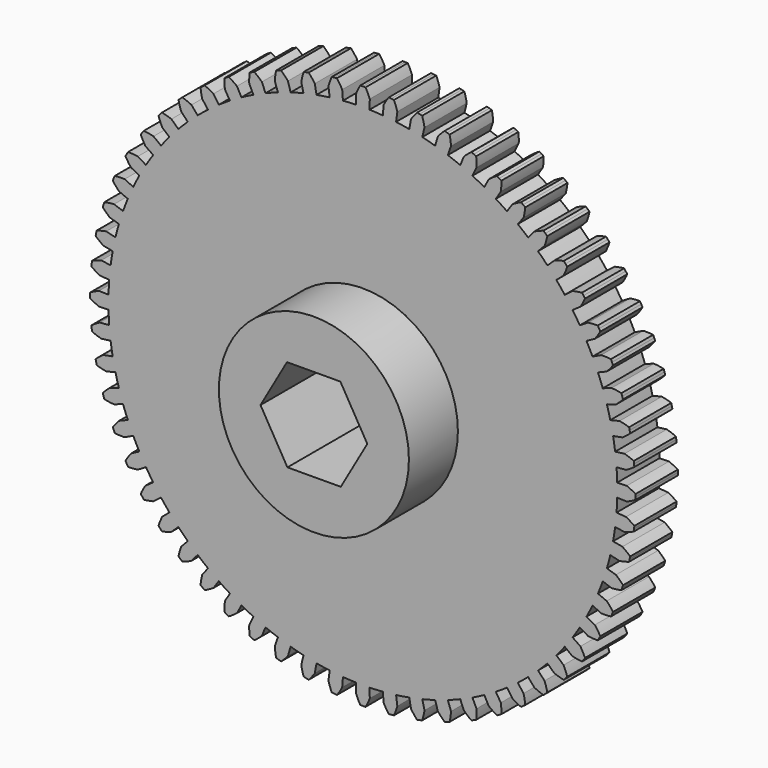
from build123d import *

# Parameters (mm, degrees)
F1_DEPTH = 6.35
F2_R     = 11.43
F3_DEPTH = 7.366
F5_DEPTH = 25.4


with BuildPart() as f1:
    # F0 (on Front) → F1 (new body)
    with BuildSketch(Plane.XZ):
        with BuildLine():
            Line((21.855258, -23.030636), (21.068468, -22.201533))
            ThreePointArc((21.068468, -22.201533), (20.48008, -22.745434), (19.877656, -23.273745))
            Line((19.877656, -23.273745), (20.619976, -24.142889))
            ThreePointArc((20.619976, -24.142889), (21.159843, -24.385312), (21.716271, -24.586837))
            ThreePointArc((21.716271, -24.586837), (21.833498, -24.482797), (21.950227, -24.378197))
            ThreePointArc((21.950227, -24.378197), (22.066455, -24.273041), (22.182179, -24.167331))
            ThreePointArc((22.182179, -24.167331), (22.039921, -23.592886), (21.855258, -23.030636))
        make_face()
        with BuildLine():
            ThreePointArc((-18.632361, 24.282166), (-17.990343, 24.761583), (-17.335996, 25.22403))
            Line((-17.335996, 25.22403), (-17.983398, 26.166006))
            ThreePointArc((-17.983398, 26.166006), (-18.494968, 26.463532), (-19.027282, 26.722116))
            ThreePointArc((-19.027282, 26.722116), (-19.154743, 26.630899), (-19.281766, 26.539074))
            ThreePointArc((-19.281766, 26.539074), (-19.408349, 26.446644), (-19.534489, 26.353609))
            ThreePointArc((-19.534489, 26.353609), (-19.453055, 25.767441), (-19.328175, 25.188969))
            Line((-19.328175, 25.188969), (-18.632361, 24.282166))
        make_face()
        with BuildLine():
            Line((24.142889, -20.619976), (23.273745, -19.877656))
            ThreePointArc((23.273745, -19.877656), (22.745434, -20.48008), (22.201533, -21.068468))
            Line((22.201533, -21.068468), (23.030636, -21.855258))
            ThreePointArc((23.030636, -21.855258), (23.592886, -22.039921), (24.167331, -22.182179))
            ThreePointArc((24.167331, -22.182179), (24.273041, -22.066455), (24.378197, -21.950227))
            ThreePointArc((24.378197, -21.950227), (24.482797, -21.833498), (24.586837, -21.716271))
            ThreePointArc((24.586837, -21.716271), (24.385312, -21.159843), (24.142889, -20.619976))
        make_face()
        with BuildLine():
            Line((26.166006, -17.983398), (25.22403, -17.335996))
            ThreePointArc((25.22403, -17.335996), (24.761583, -17.990343), (24.282166, -18.632361))
            Line((24.282166, -18.632361), (25.188969, -19.328175))
            ThreePointArc((25.188969, -19.328175), (25.767441, -19.453055), (26.353609, -19.534489))
            ThreePointArc((26.353609, -19.534489), (26.446644, -19.408349), (26.539074, -19.281766))
            ThreePointArc((26.539074, -19.281766), (26.630899, -19.154743), (26.722116, -19.027282))
            ThreePointArc((26.722116, -19.027282), (26.463532, -18.494968), (26.166006, -17.983398))
        make_face()
        with BuildLine():
            Line((27.902443, -15.149791), (26.897955, -14.604398))
            ThreePointArc((26.897955, -14.604398), (26.50644, -15.3035), (26.096758, -15.992114))
            Line((26.096758, -15.992114), (27.071325, -16.589329))
            ThreePointArc((27.071325, -16.589329), (27.659682, -16.653059), (28.251151, -16.672775))
            ThreePointArc((28.251151, -16.672775), (28.330491, -16.537601), (28.409184, -16.40205))
            ThreePointArc((28.409184, -16.40205), (28.487228, -16.266124), (28.564622, -16.129827))
            ThreePointArc((28.564622, -16.129827), (28.251813, -15.627458), (27.902443, -15.149791))
        make_face()
        with BuildLine():
            ThreePointArc((-0.801198, 30.596512), (0, 30.607), (0.801198, 30.596512))
            Line((0.801198, 30.596512), (0.831118, 31.73912))
            ThreePointArc((0.831118, 31.73912), (0.592131, 32.280516), (0.313471, 32.802602))
            ThreePointArc((0.313471, 32.802602), (0.156737, 32.803726), (0, 32.8041))
            ThreePointArc((0, 32.8041), (-0.156737, 32.803726), (-0.313471, 32.802602))
            ThreePointArc((-0.313471, 32.802602), (-0.592131, 32.280516), (-0.831118, 31.73912))
            Line((-0.831118, 31.73912), (-0.801198, 30.596512))
        make_face()
        with BuildLine():
            ThreePointArc((26.096758, 15.992114), (26.50644, 15.3035), (26.897955, 14.604398))
            Line((26.897955, 14.604398), (27.902443, 15.149791))
            ThreePointArc((27.902443, 15.149791), (28.251813, 15.627458), (28.564622, 16.129827))
            ThreePointArc((28.564622, 16.129827), (28.487228, 16.266124), (28.409184, 16.40205))
            ThreePointArc((28.409184, 16.40205), (28.330491, 16.537601), (28.251151, 16.672775))
            ThreePointArc((28.251151, 16.672775), (27.659682, 16.653059), (27.071325, 16.589329))
            Line((27.071325, 16.589329), (26.096758, 15.992114))
        make_face()
        with BuildLine():
            ThreePointArc((24.282166, 18.632361), (24.761583, 17.990343), (25.22403, 17.335996))
            Line((25.22403, 17.335996), (26.166006, 17.983398))
            ThreePointArc((26.166006, 17.983398), (26.463532, 18.494968), (26.722116, 19.027282))
            ThreePointArc((26.722116, 19.027282), (26.630899, 19.154743), (26.539074, 19.281766))
            ThreePointArc((26.539074, 19.281766), (26.446644, 19.408349), (26.353609, 19.534489))
            ThreePointArc((26.353609, 19.534489), (25.767441, 19.453055), (25.188969, 19.328175))
            Line((25.188969, 19.328175), (24.282166, 18.632361))
        make_face()
        with BuildLine():
            ThreePointArc((22.201533, 21.068468), (22.745434, 20.48008), (23.273745, 19.877656))
            Line((23.273745, 19.877656), (24.142889, 20.619976))
            ThreePointArc((24.142889, 20.619976), (24.385312, 21.159843), (24.586837, 21.716271))
            ThreePointArc((24.586837, 21.716271), (24.482797, 21.833498), (24.378197, 21.950227))
            ThreePointArc((24.378197, 21.950227), (24.273041, 22.066455), (24.167331, 22.182179))
            ThreePointArc((24.167331, 22.182179), (23.592886, 22.039921), (23.030636, 21.855258))
            Line((23.030636, 21.855258), (22.201533, 21.068468))
        make_face()
        with BuildLine():
            ThreePointArc((19.877656, 23.273745), (20.48008, 22.745434), (21.068468, 22.201533))
            Line((21.068468, 22.201533), (21.855258, 23.030636))
            ThreePointArc((21.855258, 23.030636), (22.039921, 23.592886), (22.182179, 24.167331))
            ThreePointArc((22.182179, 24.167331), (22.066455, 24.273041), (21.950227, 24.378197))
            ThreePointArc((21.950227, 24.378197), (21.833498, 24.482797), (21.716271, 24.586837))
            ThreePointArc((21.716271, 24.586837), (21.159843, 24.385312), (20.619976, 24.142889))
            Line((20.619976, 24.142889), (19.877656, 23.273745))
        make_face()
        with BuildLine():
            ThreePointArc((17.335996, 25.22403), (17.990343, 24.761583), (18.632361, 24.282166))
            Line((18.632361, 24.282166), (19.328175, 25.188969))
            ThreePointArc((19.328175, 25.188969), (19.453055, 25.767441), (19.534489, 26.353609))
            ThreePointArc((19.534489, 26.353609), (19.408349, 26.446644), (19.281766, 26.539074))
            ThreePointArc((19.281766, 26.539074), (19.154743, 26.630899), (19.027282, 26.722116))
            ThreePointArc((19.027282, 26.722116), (18.494968, 26.463532), (17.983398, 26.166006))
            Line((17.983398, 26.166006), (17.335996, 25.22403))
        make_face()
        with BuildLine():
            ThreePointArc((-7.145062, 29.761326), (-6.363553, 29.938164), (-5.577683, 30.094483))
            Line((-5.577683, 30.094483), (-5.785978, 31.218343))
            ThreePointArc((-5.785978, 31.218343), (-6.132305, 31.698221), (-6.513424, 32.150961))
            ThreePointArc((-6.513424, 32.150961), (-6.666966, 32.119473), (-6.820356, 32.087252))
            ThreePointArc((-6.820356, 32.087252), (-6.97359, 32.054298), (-7.126665, 32.020612))
            ThreePointArc((-7.126665, 32.020612), (-7.290688, 31.451999), (-7.41189, 30.872745))
            Line((-7.41189, 30.872745), (-7.145062, 29.761326))
        make_face()
        with BuildLine():
            ThreePointArc((-10.216827, 28.851428), (-9.458083, 29.108987), (-8.692858, 29.346596))
            Line((-8.692858, 29.346596), (-9.017487, 30.442527))
            ThreePointArc((-9.017487, 30.442527), (-9.412078, 30.883574), (-9.838433, 31.293996))
            ThreePointArc((-9.838433, 31.293996), (-9.987843, 31.246631), (-10.137024, 31.198553))
            ThreePointArc((-10.137024, 31.198553), (-10.285975, 31.149762), (-10.43469, 31.100261))
            ThreePointArc((-10.43469, 31.100261), (-10.538378, 30.517617), (-10.598368, 29.928867))
            Line((-10.598368, 29.928867), (-10.216827, 28.851428))
        make_face()
        with BuildLine():
            ThreePointArc((-13.176653, 27.625428), (-12.448988, 27.960886), (-11.712792, 28.277181))
            Line((-11.712792, 28.277181), (-12.150199, 29.333175))
            ThreePointArc((-12.150199, 29.333175), (-12.58873, 29.730561), (-13.05565, 30.094168))
            ThreePointArc((-13.05565, 30.094168), (-13.199291, 30.031445), (-13.34263, 29.968037))
            ThreePointArc((-13.34263, 29.968037), (-13.485664, 29.903944), (-13.62839, 29.839168))
            ThreePointArc((-13.62839, 29.839168), (-13.670607, 29.248878), (-13.668727, 28.657083))
            Line((-13.668727, 28.657083), (-13.176653, 27.625428))
        make_face()
        with BuildLine():
            ThreePointArc((-15.992114, 26.096758), (-15.3035, 26.50644), (-14.604398, 26.897955))
            Line((-14.604398, 26.897955), (-15.149791, 27.902443))
            ThreePointArc((-15.149791, 27.902443), (-15.627458, 28.251813), (-16.129827, 28.564622))
            ThreePointArc((-16.129827, 28.564622), (-16.266124, 28.487228), (-16.40205, 28.409184))
            ThreePointArc((-16.40205, 28.409184), (-16.537601, 28.330491), (-16.672775, 28.251151))
            ThreePointArc((-16.672775, 28.251151), (-16.653059, 27.659682), (-16.589329, 27.071325))
            Line((-16.589329, 27.071325), (-15.992114, 26.096758))
        make_face()
        with BuildLine():
            Line((29.333175, -12.150199), (28.277181, -11.712792))
            ThreePointArc((28.277181, -11.712792), (27.960886, -12.448988), (27.625428, -13.176653))
            Line((27.625428, -13.176653), (28.657083, -13.668727))
            ThreePointArc((28.657083, -13.668727), (29.248878, -13.670607), (29.839168, -13.62839))
            ThreePointArc((29.839168, -13.62839), (29.903944, -13.485664), (29.968037, -13.34263))
            ThreePointArc((29.968037, -13.34263), (30.031445, -13.199291), (30.094168, -13.05565))
            ThreePointArc((30.094168, -13.05565), (29.730561, -12.58873), (29.333175, -12.150199))
        make_face()
        with BuildLine():
            ThreePointArc((-3.995015, 30.345153), (-3.199303, 30.439332), (-2.401398, 30.512649))
            Line((-2.401398, 30.512649), (-2.491076, 31.652125))
            ThreePointArc((-2.491076, 31.652125), (-2.785346, 32.165575), (-3.117052, 32.655673))
            ThreePointArc((-3.117052, 32.655673), (-3.273044, 32.640407), (-3.428962, 32.624396))
            ThreePointArc((-3.428962, 32.624396), (-3.584802, 32.60764), (-3.740559, 32.590139))
            ThreePointArc((-3.740559, 32.590139), (-3.96312, 32.041786), (-4.144207, 31.478374))
            Line((-4.144207, 31.478374), (-3.995015, 30.345153))
        make_face()
        with BuildLine():
            ThreePointArc((2.401398, 30.512649), (3.199303, 30.439332), (3.995015, 30.345153))
            Line((3.995015, 30.345153), (4.144207, 31.478374))
            ThreePointArc((4.144207, 31.478374), (3.96312, 32.041786), (3.740559, 32.590139))
            ThreePointArc((3.740559, 32.590139), (3.584802, 32.60764), (3.428962, 32.624396))
            ThreePointArc((3.428962, 32.624396), (3.273044, 32.640407), (3.117052, 32.655673))
            ThreePointArc((3.117052, 32.655673), (2.785346, 32.165575), (2.491076, 31.652125))
            Line((2.491076, 31.652125), (2.401398, 30.512649))
        make_face()
        with BuildLine():
            ThreePointArc((27.625428, 13.176653), (27.960886, 12.448988), (28.277181, 11.712792))
            Line((28.277181, 11.712792), (29.333175, 12.150199))
            ThreePointArc((29.333175, 12.150199), (29.730561, 12.58873), (30.094168, 13.05565))
            ThreePointArc((30.094168, 13.05565), (30.031445, 13.199291), (29.968037, 13.34263))
            ThreePointArc((29.968037, 13.34263), (29.903944, 13.485664), (29.839168, 13.62839))
            ThreePointArc((29.839168, 13.62839), (29.248878, 13.670607), (28.657083, 13.668727))
            Line((28.657083, 13.668727), (27.625428, 13.176653))
        make_face()
        with BuildLine():
            ThreePointArc((14.604398, 26.897955), (15.3035, 26.50644), (15.992114, 26.096758))
            Line((15.992114, 26.096758), (16.589329, 27.071325))
            ThreePointArc((16.589329, 27.071325), (16.653059, 27.659682), (16.672775, 28.251151))
            ThreePointArc((16.672775, 28.251151), (16.537601, 28.330491), (16.40205, 28.409184))
            ThreePointArc((16.40205, 28.409184), (16.266124, 28.487228), (16.129827, 28.564622))
            ThreePointArc((16.129827, 28.564622), (15.627458, 28.251813), (15.149791, 27.902443))
            Line((15.149791, 27.902443), (14.604398, 26.897955))
        make_face()
        with BuildLine():
            ThreePointArc((11.712792, 28.277181), (12.448988, 27.960886), (13.176653, 27.625428))
            Line((13.176653, 27.625428), (13.668727, 28.657083))
            ThreePointArc((13.668727, 28.657083), (13.670607, 29.248878), (13.62839, 29.839168))
            ThreePointArc((13.62839, 29.839168), (13.485664, 29.903944), (13.34263, 29.968037))
            ThreePointArc((13.34263, 29.968037), (13.199291, 30.031445), (13.05565, 30.094168))
            ThreePointArc((13.05565, 30.094168), (12.58873, 29.730561), (12.150199, 29.333175))
            Line((12.150199, 29.333175), (11.712792, 28.277181))
        make_face()
        with BuildLine():
            ThreePointArc((8.692858, 29.346596), (9.458083, 29.108987), (10.216827, 28.851428))
            Line((10.216827, 28.851428), (10.598368, 29.928867))
            ThreePointArc((10.598368, 29.928867), (10.538378, 30.517617), (10.43469, 31.100261))
            ThreePointArc((10.43469, 31.100261), (10.285975, 31.149762), (10.137024, 31.198553))
            ThreePointArc((10.137024, 31.198553), (9.987843, 31.246631), (9.838433, 31.293996))
            ThreePointArc((9.838433, 31.293996), (9.412078, 30.883574), (9.017487, 30.442527))
            Line((9.017487, 30.442527), (8.692858, 29.346596))
        make_face()
        with BuildLine():
            ThreePointArc((5.577683, 30.094483), (6.363553, 29.938164), (7.145062, 29.761326))
            Line((7.145062, 29.761326), (7.41189, 30.872745))
            ThreePointArc((7.41189, 30.872745), (7.290688, 31.451999), (7.126665, 32.020612))
            ThreePointArc((7.126665, 32.020612), (6.97359, 32.054298), (6.820356, 32.087252))
            ThreePointArc((6.820356, 32.087252), (6.666966, 32.119473), (6.513424, 32.150961))
            ThreePointArc((6.513424, 32.150961), (6.132305, 31.698221), (5.785978, 31.218343))
            Line((5.785978, 31.218343), (5.577683, 30.094483))
        make_face()
        with BuildLine():
            Line((-30.872745, -7.41189), (-29.761326, -7.145062))
            ThreePointArc((-29.761326, -7.145062), (-29.938164, -6.363553), (-30.094483, -5.577683))
            Line((-30.094483, -5.577683), (-31.218343, -5.785978))
            ThreePointArc((-31.218343, -5.785978), (-31.698221, -6.132305), (-32.150961, -6.513424))
            ThreePointArc((-32.150961, -6.513424), (-32.119473, -6.666966), (-32.087252, -6.820356))
            ThreePointArc((-32.087252, -6.820356), (-32.054298, -6.97359), (-32.020612, -7.126665))
            ThreePointArc((-32.020612, -7.126665), (-31.451999, -7.290688), (-30.872745, -7.41189))
        make_face()
        with BuildLine():
            Line((16.589329, -27.071325), (15.992114, -26.096758))
            ThreePointArc((15.992114, -26.096758), (15.3035, -26.50644), (14.604398, -26.897955))
            Line((14.604398, -26.897955), (15.149791, -27.902443))
            ThreePointArc((15.149791, -27.902443), (15.627458, -28.251813), (16.129827, -28.564622))
            ThreePointArc((16.129827, -28.564622), (16.266124, -28.487228), (16.40205, -28.409184))
            ThreePointArc((16.40205, -28.409184), (16.537601, -28.330491), (16.672775, -28.251151))
            ThreePointArc((16.672775, -28.251151), (16.653059, -27.659682), (16.589329, -27.071325))
        make_face()
        with BuildLine():
            Line((-25.188969, -19.328175), (-24.282166, -18.632361))
            ThreePointArc((-24.282166, -18.632361), (-24.761583, -17.990343), (-25.22403, -17.335996))
            Line((-25.22403, -17.335996), (-26.166006, -17.983398))
            ThreePointArc((-26.166006, -17.983398), (-26.463532, -18.494968), (-26.722116, -19.027282))
            ThreePointArc((-26.722116, -19.027282), (-26.630899, -19.154743), (-26.539074, -19.281766))
            ThreePointArc((-26.539074, -19.281766), (-26.446644, -19.408349), (-26.353609, -19.534489))
            ThreePointArc((-26.353609, -19.534489), (-25.767441, -19.453055), (-25.188969, -19.328175))
        make_face()
        with BuildLine():
            Line((-23.030636, -21.855258), (-22.201533, -21.068468))
            ThreePointArc((-22.201533, -21.068468), (-22.745434, -20.48008), (-23.273745, -19.877656))
            Line((-23.273745, -19.877656), (-24.142889, -20.619976))
            ThreePointArc((-24.142889, -20.619976), (-24.385312, -21.159843), (-24.586837, -21.716271))
            ThreePointArc((-24.586837, -21.716271), (-24.482797, -21.833498), (-24.378197, -21.950227))
            ThreePointArc((-24.378197, -21.950227), (-24.273041, -22.066455), (-24.167331, -22.182179))
            ThreePointArc((-24.167331, -22.182179), (-23.592886, -22.039921), (-23.030636, -21.855258))
        make_face()
        with BuildLine():
            ThreePointArc((-21.068468, 22.201533), (-20.48008, 22.745434), (-19.877656, 23.273745))
            Line((-19.877656, 23.273745), (-20.619976, 24.142889))
            ThreePointArc((-20.619976, 24.142889), (-21.159843, 24.385312), (-21.716271, 24.586837))
            ThreePointArc((-21.716271, 24.586837), (-21.833498, 24.482797), (-21.950227, 24.378197))
            ThreePointArc((-21.950227, 24.378197), (-22.066455, 24.273041), (-22.182179, 24.167331))
            ThreePointArc((-22.182179, 24.167331), (-22.039921, 23.592886), (-21.855258, 23.030636))
            Line((-21.855258, 23.030636), (-21.068468, 22.201533))
        make_face()
        with BuildLine():
            Line((-20.619976, -24.142889), (-19.877656, -23.273745))
            ThreePointArc((-19.877656, -23.273745), (-20.48008, -22.745434), (-21.068468, -22.201533))
            Line((-21.068468, -22.201533), (-21.855258, -23.030636))
            ThreePointArc((-21.855258, -23.030636), (-22.039921, -23.592886), (-22.182179, -24.167331))
            ThreePointArc((-22.182179, -24.167331), (-22.066455, -24.273041), (-21.950227, -24.378197))
            ThreePointArc((-21.950227, -24.378197), (-21.833498, -24.482797), (-21.716271, -24.586837))
            ThreePointArc((-21.716271, -24.586837), (-21.159843, -24.385312), (-20.619976, -24.142889))
        make_face()
        with BuildLine():
            ThreePointArc((-23.273745, 19.877656), (-22.745434, 20.48008), (-22.201533, 21.068468))
            Line((-22.201533, 21.068468), (-23.030636, 21.855258))
            ThreePointArc((-23.030636, 21.855258), (-23.592886, 22.039921), (-24.167331, 22.182179))
            ThreePointArc((-24.167331, 22.182179), (-24.273041, 22.066455), (-24.378197, 21.950227))
            ThreePointArc((-24.378197, 21.950227), (-24.482797, 21.833498), (-24.586837, 21.716271))
            ThreePointArc((-24.586837, 21.716271), (-24.385312, 21.159843), (-24.142889, 20.619976))
            Line((-24.142889, 20.619976), (-23.273745, 19.877656))
        make_face()
        with BuildLine():
            Line((-15.149791, -27.902443), (-14.604398, -26.897955))
            ThreePointArc((-14.604398, -26.897955), (-15.3035, -26.50644), (-15.992114, -26.096758))
            Line((-15.992114, -26.096758), (-16.589329, -27.071325))
            ThreePointArc((-16.589329, -27.071325), (-16.653059, -27.659682), (-16.672775, -28.251151))
            ThreePointArc((-16.672775, -28.251151), (-16.537601, -28.330491), (-16.40205, -28.409184))
            ThreePointArc((-16.40205, -28.409184), (-16.266124, -28.487228), (-16.129827, -28.564622))
            ThreePointArc((-16.129827, -28.564622), (-15.627458, -28.251813), (-15.149791, -27.902443))
        make_face()
        with BuildLine():
            ThreePointArc((-25.22403, 17.335996), (-24.761583, 17.990343), (-24.282166, 18.632361))
            Line((-24.282166, 18.632361), (-25.188969, 19.328175))
            ThreePointArc((-25.188969, 19.328175), (-25.767441, 19.453055), (-26.353609, 19.534489))
            ThreePointArc((-26.353609, 19.534489), (-26.446644, 19.408349), (-26.539074, 19.281766))
            ThreePointArc((-26.539074, 19.281766), (-26.630899, 19.154743), (-26.722116, 19.027282))
            ThreePointArc((-26.722116, 19.027282), (-26.463532, 18.494968), (-26.166006, 17.983398))
            Line((-26.166006, 17.983398), (-25.22403, 17.335996))
        make_face()
        with BuildLine():
            Line((31.218343, -5.785978), (30.094483, -5.577683))
            ThreePointArc((30.094483, -5.577683), (29.938164, -6.363553), (29.761326, -7.145062))
            Line((29.761326, -7.145062), (30.872745, -7.41189))
            ThreePointArc((30.872745, -7.41189), (31.451999, -7.290688), (32.020612, -7.126665))
            ThreePointArc((32.020612, -7.126665), (32.054298, -6.97359), (32.087252, -6.820356))
            ThreePointArc((32.087252, -6.820356), (32.119473, -6.666966), (32.150961, -6.513424))
            ThreePointArc((32.150961, -6.513424), (31.698221, -6.132305), (31.218343, -5.785978))
        make_face()
        with BuildLine():
            ThreePointArc((30.596512, -0.801198), (30.604378, -0.400633), (30.607, 0))
            ThreePointArc((30.607, 0), (30.604378, 0.400633), (30.596512, 0.801198))
            ThreePointArc((30.596512, 0.801198), (30.565054, 1.601847), (30.512649, 2.401398))
            ThreePointArc((30.512649, 2.401398), (30.439332, 3.199303), (30.345153, 3.995015))
            ThreePointArc((30.345153, 3.995015), (30.230177, 4.78799), (30.094483, 5.577683))
            ThreePointArc((30.094483, 5.577683), (29.938164, 6.363553), (29.761326, 7.145062))
            ThreePointArc((29.761326, 7.145062), (29.564092, 7.921675), (29.346596, 8.692858))
            ThreePointArc((29.346596, 8.692858), (29.108987, 9.458083), (28.851428, 10.216827))
            ThreePointArc((28.851428, 10.216827), (28.574096, 10.968568), (28.277181, 11.712792))
            ThreePointArc((28.277181, 11.712792), (27.960886, 12.448988), (27.625428, 13.176653))
            ThreePointArc((27.625428, 13.176653), (27.271037, 13.895287), (26.897955, 14.604398))
            ThreePointArc((26.897955, 14.604398), (26.50644, 15.3035), (26.096758, 15.992114))
            ThreePointArc((26.096758, 15.992114), (25.66919, 16.669767), (25.22403, 17.335996))
            ThreePointArc((25.22403, 17.335996), (24.761583, 17.990343), (24.282166, 18.632361))
            ThreePointArc((24.282166, 18.632361), (23.786106, 19.261609), (23.273745, 19.877656))
            ThreePointArc((23.273745, 19.877656), (22.745434, 20.48008), (22.201533, 21.068468))
            ThreePointArc((22.201533, 21.068468), (21.642417, 21.642417), (21.068468, 22.201533))
            ThreePointArc((21.068468, 22.201533), (20.48008, 22.745434), (19.877656, 23.273745))
            ThreePointArc((19.877656, 23.273745), (19.261609, 23.786106), (18.632361, 24.282166))
            ThreePointArc((18.632361, 24.282166), (17.990343, 24.761583), (17.335996, 25.22403))
            ThreePointArc((17.335996, 25.22403), (16.669767, 25.66919), (15.992114, 26.096758))
            ThreePointArc((15.992114, 26.096758), (15.3035, 26.50644), (14.604398, 26.897955))
            ThreePointArc((14.604398, 26.897955), (13.895287, 27.271037), (13.176653, 27.625428))
            ThreePointArc((13.176653, 27.625428), (12.448988, 27.960886), (11.712792, 28.277181))
            ThreePointArc((11.712792, 28.277181), (10.968568, 28.574096), (10.216827, 28.851428))
            ThreePointArc((10.216827, 28.851428), (9.458083, 29.108987), (8.692858, 29.346596))
            ThreePointArc((8.692858, 29.346596), (7.921675, 29.564092), (7.145062, 29.761326))
            ThreePointArc((7.145062, 29.761326), (6.363553, 29.938164), (5.577683, 30.094483))
            ThreePointArc((5.577683, 30.094483), (4.78799, 30.230177), (3.995015, 30.345153))
            ThreePointArc((3.995015, 30.345153), (3.199303, 30.439332), (2.401398, 30.512649))
            ThreePointArc((2.401398, 30.512649), (1.601847, 30.565054), (0.801198, 30.596512))
            ThreePointArc((0.801198, 30.596512), (0, 30.607), (-0.801198, 30.596512))
            ThreePointArc((-0.801198, 30.596512), (-1.601847, 30.565054), (-2.401398, 30.512649))
            ThreePointArc((-2.401398, 30.512649), (-3.199303, 30.439332), (-3.995015, 30.345153))
            ThreePointArc((-3.995015, 30.345153), (-4.78799, 30.230177), (-5.577683, 30.094483))
            ThreePointArc((-5.577683, 30.094483), (-6.363553, 29.938164), (-7.145062, 29.761326))
            ThreePointArc((-7.145062, 29.761326), (-7.921675, 29.564092), (-8.692858, 29.346596))
            ThreePointArc((-8.692858, 29.346596), (-9.458083, 29.108987), (-10.216827, 28.851428))
            ThreePointArc((-10.216827, 28.851428), (-10.968568, 28.574096), (-11.712792, 28.277181))
            ThreePointArc((-11.712792, 28.277181), (-12.448988, 27.960886), (-13.176653, 27.625428))
            ThreePointArc((-13.176653, 27.625428), (-13.895287, 27.271037), (-14.604398, 26.897955))
            ThreePointArc((-14.604398, 26.897955), (-15.3035, 26.50644), (-15.992114, 26.096758))
            ThreePointArc((-15.992114, 26.096758), (-16.669767, 25.66919), (-17.335996, 25.22403))
            ThreePointArc((-17.335996, 25.22403), (-17.990343, 24.761583), (-18.632361, 24.282166))
            ThreePointArc((-18.632361, 24.282166), (-19.261609, 23.786106), (-19.877656, 23.273745))
            ThreePointArc((-19.877656, 23.273745), (-20.48008, 22.745434), (-21.068468, 22.201533))
            ThreePointArc((-21.068468, 22.201533), (-21.642417, 21.642417), (-22.201533, 21.068468))
            ThreePointArc((-22.201533, 21.068468), (-22.745434, 20.48008), (-23.273745, 19.877656))
            ThreePointArc((-23.273745, 19.877656), (-23.786106, 19.261609), (-24.282166, 18.632361))
            ThreePointArc((-24.282166, 18.632361), (-24.761583, 17.990343), (-25.22403, 17.335996))
            ThreePointArc((-25.22403, 17.335996), (-25.66919, 16.669767), (-26.096758, 15.992114))
            ThreePointArc((-26.096758, 15.992114), (-26.50644, 15.3035), (-26.897955, 14.604398))
            ThreePointArc((-26.897955, 14.604398), (-27.271037, 13.895287), (-27.625428, 13.176653))
            ThreePointArc((-27.625428, 13.176653), (-27.960886, 12.448988), (-28.277181, 11.712792))
            ThreePointArc((-28.277181, 11.712792), (-28.574096, 10.968568), (-28.851428, 10.216827))
            ThreePointArc((-28.851428, 10.216827), (-29.108987, 9.458083), (-29.346596, 8.692858))
            ThreePointArc((-29.346596, 8.692858), (-29.564092, 7.921675), (-29.761326, 7.145062))
            ThreePointArc((-29.761326, 7.145062), (-29.938164, 6.363553), (-30.094483, 5.577683))
            ThreePointArc((-30.094483, 5.577683), (-30.230177, 4.78799), (-30.345153, 3.995015))
            ThreePointArc((-30.345153, 3.995015), (-30.439332, 3.199303), (-30.512649, 2.401398))
            ThreePointArc((-30.512649, 2.401398), (-30.565054, 1.601847), (-30.596512, 0.801198))
            ThreePointArc((-30.596512, 0.801198), (-30.607, 0), (-30.596512, -0.801198))
            ThreePointArc((-30.596512, -0.801198), (-30.565054, -1.601847), (-30.512649, -2.401398))
            ThreePointArc((-30.512649, -2.401398), (-30.439332, -3.199303), (-30.345153, -3.995015))
            ThreePointArc((-30.345153, -3.995015), (-30.230177, -4.78799), (-30.094483, -5.577683))
            ThreePointArc((-30.094483, -5.577683), (-29.938164, -6.363553), (-29.761326, -7.145062))
            ThreePointArc((-29.761326, -7.145062), (-29.564092, -7.921675), (-29.346596, -8.692858))
            ThreePointArc((-29.346596, -8.692858), (-29.108987, -9.458083), (-28.851428, -10.216827))
            ThreePointArc((-28.851428, -10.216827), (-28.574096, -10.968568), (-28.277181, -11.712792))
            ThreePointArc((-28.277181, -11.712792), (-27.960886, -12.448988), (-27.625428, -13.176653))
            ThreePointArc((-27.625428, -13.176653), (-27.271037, -13.895287), (-26.897955, -14.604398))
            ThreePointArc((-26.897955, -14.604398), (-26.50644, -15.3035), (-26.096758, -15.992114))
            ThreePointArc((-26.096758, -15.992114), (-25.66919, -16.669767), (-25.22403, -17.335996))
            ThreePointArc((-25.22403, -17.335996), (-24.761583, -17.990343), (-24.282166, -18.632361))
            ThreePointArc((-24.282166, -18.632361), (-23.786106, -19.261609), (-23.273745, -19.877656))
            ThreePointArc((-23.273745, -19.877656), (-22.745434, -20.48008), (-22.201533, -21.068468))
            ThreePointArc((-22.201533, -21.068468), (-21.642417, -21.642417), (-21.068468, -22.201533))
            ThreePointArc((-21.068468, -22.201533), (-20.48008, -22.745434), (-19.877656, -23.273745))
            ThreePointArc((-19.877656, -23.273745), (-19.261609, -23.786106), (-18.632361, -24.282166))
            ThreePointArc((-18.632361, -24.282166), (-17.990343, -24.761583), (-17.335996, -25.22403))
            ThreePointArc((-17.335996, -25.22403), (-16.669767, -25.66919), (-15.992114, -26.096758))
            ThreePointArc((-15.992114, -26.096758), (-15.3035, -26.50644), (-14.604398, -26.897955))
            ThreePointArc((-14.604398, -26.897955), (-13.895287, -27.271037), (-13.176653, -27.625428))
            ThreePointArc((-13.176653, -27.625428), (-12.448988, -27.960886), (-11.712792, -28.277181))
            ThreePointArc((-11.712792, -28.277181), (-10.968568, -28.574096), (-10.216827, -28.851428))
            ThreePointArc((-10.216827, -28.851428), (-9.458083, -29.108987), (-8.692858, -29.346596))
            ThreePointArc((-8.692858, -29.346596), (-7.921675, -29.564092), (-7.145062, -29.761326))
            ThreePointArc((-7.145062, -29.761326), (-6.363553, -29.938164), (-5.577683, -30.094483))
            ThreePointArc((-5.577683, -30.094483), (-4.78799, -30.230177), (-3.995015, -30.345153))
            ThreePointArc((-3.995015, -30.345153), (-3.199303, -30.439332), (-2.401398, -30.512649))
            ThreePointArc((-2.401398, -30.512649), (-1.601847, -30.565054), (-0.801198, -30.596512))
            ThreePointArc((-0.801198, -30.596512), (0, -30.607), (0.801198, -30.596512))
            ThreePointArc((0.801198, -30.596512), (1.601847, -30.565054), (2.401398, -30.512649))
            ThreePointArc((2.401398, -30.512649), (3.199303, -30.439332), (3.995015, -30.345153))
            ThreePointArc((3.995015, -30.345153), (4.78799, -30.230177), (5.577683, -30.094483))
            ThreePointArc((5.577683, -30.094483), (6.363553, -29.938164), (7.145062, -29.761326))
            ThreePointArc((7.145062, -29.761326), (7.921675, -29.564092), (8.692858, -29.346596))
            ThreePointArc((8.692858, -29.346596), (9.458083, -29.108987), (10.216827, -28.851428))
            ThreePointArc((10.216827, -28.851428), (10.968568, -28.574096), (11.712792, -28.277181))
            ThreePointArc((11.712792, -28.277181), (12.448988, -27.960886), (13.176653, -27.625428))
            ThreePointArc((13.176653, -27.625428), (13.895287, -27.271037), (14.604398, -26.897955))
            ThreePointArc((14.604398, -26.897955), (15.3035, -26.50644), (15.992114, -26.096758))
            ThreePointArc((15.992114, -26.096758), (16.669767, -25.66919), (17.335996, -25.22403))
            ThreePointArc((17.335996, -25.22403), (17.990343, -24.761583), (18.632361, -24.282166))
            ThreePointArc((18.632361, -24.282166), (19.261609, -23.786106), (19.877656, -23.273745))
            ThreePointArc((19.877656, -23.273745), (20.48008, -22.745434), (21.068468, -22.201533))
            ThreePointArc((21.068468, -22.201533), (21.642417, -21.642417), (22.201533, -21.068468))
            ThreePointArc((22.201533, -21.068468), (22.745434, -20.48008), (23.273745, -19.877656))
            ThreePointArc((23.273745, -19.877656), (23.786106, -19.261609), (24.282166, -18.632361))
            ThreePointArc((24.282166, -18.632361), (24.761583, -17.990343), (25.22403, -17.335996))
            ThreePointArc((25.22403, -17.335996), (25.66919, -16.669767), (26.096758, -15.992114))
            ThreePointArc((26.096758, -15.992114), (26.50644, -15.3035), (26.897955, -14.604398))
            ThreePointArc((26.897955, -14.604398), (27.271037, -13.895287), (27.625428, -13.176653))
            ThreePointArc((27.625428, -13.176653), (27.960886, -12.448988), (28.277181, -11.712792))
            ThreePointArc((28.277181, -11.712792), (28.574096, -10.968568), (28.851428, -10.216827))
            ThreePointArc((28.851428, -10.216827), (29.108987, -9.458083), (29.346596, -8.692858))
            ThreePointArc((29.346596, -8.692858), (29.564092, -7.921675), (29.761326, -7.145062))
            ThreePointArc((29.761326, -7.145062), (29.938164, -6.363553), (30.094483, -5.577683))
            ThreePointArc((30.094483, -5.577683), (30.230177, -4.78799), (30.345153, -3.995015))
            ThreePointArc((30.345153, -3.995015), (30.439332, -3.199303), (30.512649, -2.401398))
            ThreePointArc((30.512649, -2.401398), (30.565054, -1.601847), (30.596512, -0.801198))
        make_face()
        with BuildLine():
            Line((0.831118, -31.73912), (0.801198, -30.596512))
            ThreePointArc((0.801198, -30.596512), (0, -30.607), (-0.801198, -30.596512))
            Line((-0.801198, -30.596512), (-0.831118, -31.73912))
            ThreePointArc((-0.831118, -31.73912), (-0.592131, -32.280516), (-0.313471, -32.802602))
            ThreePointArc((-0.313471, -32.802602), (-0.156737, -32.803726), (0, -32.8041))
            ThreePointArc((0, -32.8041), (0.156737, -32.803726), (0.313471, -32.802602))
            ThreePointArc((0.313471, -32.802602), (0.592131, -32.280516), (0.831118, -31.73912))
        make_face()
        with BuildLine():
            ThreePointArc((-30.512649, 2.401398), (-30.439332, 3.199303), (-30.345153, 3.995015))
            Line((-30.345153, 3.995015), (-31.478374, 4.144207))
            ThreePointArc((-31.478374, 4.144207), (-32.041786, 3.96312), (-32.590139, 3.740559))
            ThreePointArc((-32.590139, 3.740559), (-32.60764, 3.584802), (-32.624396, 3.428962))
            ThreePointArc((-32.624396, 3.428962), (-32.640407, 3.273044), (-32.655673, 3.117052))
            ThreePointArc((-32.655673, 3.117052), (-32.165575, 2.785346), (-31.652125, 2.491076))
            Line((-31.652125, 2.491076), (-30.512649, 2.401398))
        make_face()
        with BuildLine():
            Line((10.598368, -29.928867), (10.216827, -28.851428))
            ThreePointArc((10.216827, -28.851428), (9.458083, -29.108987), (8.692858, -29.346596))
            Line((8.692858, -29.346596), (9.017487, -30.442527))
            ThreePointArc((9.017487, -30.442527), (9.412078, -30.883574), (9.838433, -31.293996))
            ThreePointArc((9.838433, -31.293996), (9.987843, -31.246631), (10.137024, -31.198553))
            ThreePointArc((10.137024, -31.198553), (10.285975, -31.149762), (10.43469, -31.100261))
            ThreePointArc((10.43469, -31.100261), (10.538378, -30.517617), (10.598368, -29.928867))
        make_face()
        with BuildLine():
            Line((4.144207, -31.478374), (3.995015, -30.345153))
            ThreePointArc((3.995015, -30.345153), (3.199303, -30.439332), (2.401398, -30.512649))
            Line((2.401398, -30.512649), (2.491076, -31.652125))
            ThreePointArc((2.491076, -31.652125), (2.785346, -32.165575), (3.117052, -32.655673))
            ThreePointArc((3.117052, -32.655673), (3.273044, -32.640407), (3.428962, -32.624396))
            ThreePointArc((3.428962, -32.624396), (3.584802, -32.60764), (3.740559, -32.590139))
            ThreePointArc((3.740559, -32.590139), (3.96312, -32.041786), (4.144207, -31.478374))
        make_face()
        with BuildLine():
            ThreePointArc((-30.596512, -0.801198), (-30.607, 0), (-30.596512, 0.801198))
            Line((-30.596512, 0.801198), (-31.73912, 0.831118))
            ThreePointArc((-31.73912, 0.831118), (-32.280516, 0.592131), (-32.802602, 0.313471))
            ThreePointArc((-32.802602, 0.313471), (-32.803726, 0.156737), (-32.8041, 0))
            ThreePointArc((-32.8041, 0), (-32.803726, -0.156737), (-32.802602, -0.313471))
            ThreePointArc((-32.802602, -0.313471), (-32.280516, -0.592131), (-31.73912, -0.831118))
            Line((-31.73912, -0.831118), (-30.596512, -0.801198))
        make_face()
        with BuildLine():
            Line((7.41189, -30.872745), (7.145062, -29.761326))
            ThreePointArc((7.145062, -29.761326), (6.363553, -29.938164), (5.577683, -30.094483))
            Line((5.577683, -30.094483), (5.785978, -31.218343))
            ThreePointArc((5.785978, -31.218343), (6.132305, -31.698221), (6.513424, -32.150961))
            ThreePointArc((6.513424, -32.150961), (6.666966, -32.119473), (6.820356, -32.087252))
            ThreePointArc((6.820356, -32.087252), (6.97359, -32.054298), (7.126665, -32.020612))
            ThreePointArc((7.126665, -32.020612), (7.290688, -31.451999), (7.41189, -30.872745))
        make_face()
        with BuildLine():
            Line((-31.478374, -4.144207), (-30.345153, -3.995015))
            ThreePointArc((-30.345153, -3.995015), (-30.439332, -3.199303), (-30.512649, -2.401398))
            Line((-30.512649, -2.401398), (-31.652125, -2.491076))
            ThreePointArc((-31.652125, -2.491076), (-32.165575, -2.785346), (-32.655673, -3.117052))
            ThreePointArc((-32.655673, -3.117052), (-32.640407, -3.273044), (-32.624396, -3.428962))
            ThreePointArc((-32.624396, -3.428962), (-32.60764, -3.584802), (-32.590139, -3.740559))
            ThreePointArc((-32.590139, -3.740559), (-32.041786, -3.96312), (-31.478374, -4.144207))
        make_face()
        with BuildLine():
            Line((13.668727, -28.657083), (13.176653, -27.625428))
            ThreePointArc((13.176653, -27.625428), (12.448988, -27.960886), (11.712792, -28.277181))
            Line((11.712792, -28.277181), (12.150199, -29.333175))
            ThreePointArc((12.150199, -29.333175), (12.58873, -29.730561), (13.05565, -30.094168))
            ThreePointArc((13.05565, -30.094168), (13.199291, -30.031445), (13.34263, -29.968037))
            ThreePointArc((13.34263, -29.968037), (13.485664, -29.903944), (13.62839, -29.839168))
            ThreePointArc((13.62839, -29.839168), (13.670607, -29.248878), (13.668727, -28.657083))
        make_face()
        with BuildLine():
            Line((-29.928867, -10.598368), (-28.851428, -10.216827))
            ThreePointArc((-28.851428, -10.216827), (-29.108987, -9.458083), (-29.346596, -8.692858))
            Line((-29.346596, -8.692858), (-30.442527, -9.017487))
            ThreePointArc((-30.442527, -9.017487), (-30.883574, -9.412078), (-31.293996, -9.838433))
            ThreePointArc((-31.293996, -9.838433), (-31.246631, -9.987843), (-31.198553, -10.137024))
            ThreePointArc((-31.198553, -10.137024), (-31.149762, -10.285975), (-31.100261, -10.43469))
            ThreePointArc((-31.100261, -10.43469), (-30.517617, -10.538378), (-29.928867, -10.598368))
        make_face()
        with BuildLine():
            Line((-28.657083, -13.668727), (-27.625428, -13.176653))
            ThreePointArc((-27.625428, -13.176653), (-27.960886, -12.448988), (-28.277181, -11.712792))
            Line((-28.277181, -11.712792), (-29.333175, -12.150199))
            ThreePointArc((-29.333175, -12.150199), (-29.730561, -12.58873), (-30.094168, -13.05565))
            ThreePointArc((-30.094168, -13.05565), (-30.031445, -13.199291), (-29.968037, -13.34263))
            ThreePointArc((-29.968037, -13.34263), (-29.903944, -13.485664), (-29.839168, -13.62839))
            ThreePointArc((-29.839168, -13.62839), (-29.248878, -13.670607), (-28.657083, -13.668727))
        make_face()
        with BuildLine():
            Line((19.328175, -25.188969), (18.632361, -24.282166))
            ThreePointArc((18.632361, -24.282166), (17.990343, -24.761583), (17.335996, -25.22403))
            Line((17.335996, -25.22403), (17.983398, -26.166006))
            ThreePointArc((17.983398, -26.166006), (18.494968, -26.463532), (19.027282, -26.722116))
            ThreePointArc((19.027282, -26.722116), (19.154743, -26.630899), (19.281766, -26.539074))
            ThreePointArc((19.281766, -26.539074), (19.408349, -26.446644), (19.534489, -26.353609))
            ThreePointArc((19.534489, -26.353609), (19.453055, -25.767441), (19.328175, -25.188969))
        make_face()
        with BuildLine():
            Line((-27.071325, -16.589329), (-26.096758, -15.992114))
            ThreePointArc((-26.096758, -15.992114), (-26.50644, -15.3035), (-26.897955, -14.604398))
            Line((-26.897955, -14.604398), (-27.902443, -15.149791))
            ThreePointArc((-27.902443, -15.149791), (-28.251813, -15.627458), (-28.564622, -16.129827))
            ThreePointArc((-28.564622, -16.129827), (-28.487228, -16.266124), (-28.409184, -16.40205))
            ThreePointArc((-28.409184, -16.40205), (-28.330491, -16.537601), (-28.251151, -16.672775))
            ThreePointArc((-28.251151, -16.672775), (-27.659682, -16.653059), (-27.071325, -16.589329))
        make_face()
        with BuildLine():
            Line((-17.983398, -26.166006), (-17.335996, -25.22403))
            ThreePointArc((-17.335996, -25.22403), (-17.990343, -24.761583), (-18.632361, -24.282166))
            Line((-18.632361, -24.282166), (-19.328175, -25.188969))
            ThreePointArc((-19.328175, -25.188969), (-19.453055, -25.767441), (-19.534489, -26.353609))
            ThreePointArc((-19.534489, -26.353609), (-19.408349, -26.446644), (-19.281766, -26.539074))
            ThreePointArc((-19.281766, -26.539074), (-19.154743, -26.630899), (-19.027282, -26.722116))
            ThreePointArc((-19.027282, -26.722116), (-18.494968, -26.463532), (-17.983398, -26.166006))
        make_face()
        with BuildLine():
            Line((30.442527, -9.017487), (29.346596, -8.692858))
            ThreePointArc((29.346596, -8.692858), (29.108987, -9.458083), (28.851428, -10.216827))
            Line((28.851428, -10.216827), (29.928867, -10.598368))
            ThreePointArc((29.928867, -10.598368), (30.517617, -10.538378), (31.100261, -10.43469))
            ThreePointArc((31.100261, -10.43469), (31.149762, -10.285975), (31.198553, -10.137024))
            ThreePointArc((31.198553, -10.137024), (31.246631, -9.987843), (31.293996, -9.838433))
            ThreePointArc((31.293996, -9.838433), (30.883574, -9.412078), (30.442527, -9.017487))
        make_face()
        with BuildLine():
            Line((-12.150199, -29.333175), (-11.712792, -28.277181))
            ThreePointArc((-11.712792, -28.277181), (-12.448988, -27.960886), (-13.176653, -27.625428))
            Line((-13.176653, -27.625428), (-13.668727, -28.657083))
            ThreePointArc((-13.668727, -28.657083), (-13.670607, -29.248878), (-13.62839, -29.839168))
            ThreePointArc((-13.62839, -29.839168), (-13.485664, -29.903944), (-13.34263, -29.968037))
            ThreePointArc((-13.34263, -29.968037), (-13.199291, -30.031445), (-13.05565, -30.094168))
            ThreePointArc((-13.05565, -30.094168), (-12.58873, -29.730561), (-12.150199, -29.333175))
        make_face()
        with BuildLine():
            ThreePointArc((-26.897955, 14.604398), (-26.50644, 15.3035), (-26.096758, 15.992114))
            Line((-26.096758, 15.992114), (-27.071325, 16.589329))
            ThreePointArc((-27.071325, 16.589329), (-27.659682, 16.653059), (-28.251151, 16.672775))
            ThreePointArc((-28.251151, 16.672775), (-28.330491, 16.537601), (-28.409184, 16.40205))
            ThreePointArc((-28.409184, 16.40205), (-28.487228, 16.266124), (-28.564622, 16.129827))
            ThreePointArc((-28.564622, 16.129827), (-28.251813, 15.627458), (-27.902443, 15.149791))
            Line((-27.902443, 15.149791), (-26.897955, 14.604398))
        make_face()
        with BuildLine():
            Line((-9.017487, -30.442527), (-8.692858, -29.346596))
            ThreePointArc((-8.692858, -29.346596), (-9.458083, -29.108987), (-10.216827, -28.851428))
            Line((-10.216827, -28.851428), (-10.598368, -29.928867))
            ThreePointArc((-10.598368, -29.928867), (-10.538378, -30.517617), (-10.43469, -31.100261))
            ThreePointArc((-10.43469, -31.100261), (-10.285975, -31.149762), (-10.137024, -31.198553))
            ThreePointArc((-10.137024, -31.198553), (-9.987843, -31.246631), (-9.838433, -31.293996))
            ThreePointArc((-9.838433, -31.293996), (-9.412078, -30.883574), (-9.017487, -30.442527))
        make_face()
        with BuildLine():
            ThreePointArc((-28.277181, 11.712792), (-27.960886, 12.448988), (-27.625428, 13.176653))
            Line((-27.625428, 13.176653), (-28.657083, 13.668727))
            ThreePointArc((-28.657083, 13.668727), (-29.248878, 13.670607), (-29.839168, 13.62839))
            ThreePointArc((-29.839168, 13.62839), (-29.903944, 13.485664), (-29.968037, 13.34263))
            ThreePointArc((-29.968037, 13.34263), (-30.031445, 13.199291), (-30.094168, 13.05565))
            ThreePointArc((-30.094168, 13.05565), (-29.730561, 12.58873), (-29.333175, 12.150199))
            Line((-29.333175, 12.150199), (-28.277181, 11.712792))
        make_face()
        with BuildLine():
            Line((31.652125, -2.491076), (30.512649, -2.401398))
            ThreePointArc((30.512649, -2.401398), (30.439332, -3.199303), (30.345153, -3.995015))
            Line((30.345153, -3.995015), (31.478374, -4.144207))
            ThreePointArc((31.478374, -4.144207), (32.041786, -3.96312), (32.590139, -3.740559))
            ThreePointArc((32.590139, -3.740559), (32.60764, -3.584802), (32.624396, -3.428962))
            ThreePointArc((32.624396, -3.428962), (32.640407, -3.273044), (32.655673, -3.117052))
            ThreePointArc((32.655673, -3.117052), (32.165575, -2.785346), (31.652125, -2.491076))
        make_face()
        with BuildLine():
            Line((-5.785978, -31.218343), (-5.577683, -30.094483))
            ThreePointArc((-5.577683, -30.094483), (-6.363553, -29.938164), (-7.145062, -29.761326))
            Line((-7.145062, -29.761326), (-7.41189, -30.872745))
            ThreePointArc((-7.41189, -30.872745), (-7.290688, -31.451999), (-7.126665, -32.020612))
            ThreePointArc((-7.126665, -32.020612), (-6.97359, -32.054298), (-6.820356, -32.087252))
            ThreePointArc((-6.820356, -32.087252), (-6.666966, -32.119473), (-6.513424, -32.150961))
            ThreePointArc((-6.513424, -32.150961), (-6.132305, -31.698221), (-5.785978, -31.218343))
        make_face()
        with BuildLine():
            ThreePointArc((-29.346596, 8.692858), (-29.108987, 9.458083), (-28.851428, 10.216827))
            Line((-28.851428, 10.216827), (-29.928867, 10.598368))
            ThreePointArc((-29.928867, 10.598368), (-30.517617, 10.538378), (-31.100261, 10.43469))
            ThreePointArc((-31.100261, 10.43469), (-31.149762, 10.285975), (-31.198553, 10.137024))
            ThreePointArc((-31.198553, 10.137024), (-31.246631, 9.987843), (-31.293996, 9.838433))
            ThreePointArc((-31.293996, 9.838433), (-30.883574, 9.412078), (-30.442527, 9.017487))
            Line((-30.442527, 9.017487), (-29.346596, 8.692858))
        make_face()
        with BuildLine():
            Line((-2.491076, -31.652125), (-2.401398, -30.512649))
            ThreePointArc((-2.401398, -30.512649), (-3.199303, -30.439332), (-3.995015, -30.345153))
            Line((-3.995015, -30.345153), (-4.144207, -31.478374))
            ThreePointArc((-4.144207, -31.478374), (-3.96312, -32.041786), (-3.740559, -32.590139))
            ThreePointArc((-3.740559, -32.590139), (-3.584802, -32.60764), (-3.428962, -32.624396))
            ThreePointArc((-3.428962, -32.624396), (-3.273044, -32.640407), (-3.117052, -32.655673))
            ThreePointArc((-3.117052, -32.655673), (-2.785346, -32.165575), (-2.491076, -31.652125))
        make_face()
        with BuildLine():
            ThreePointArc((-30.094483, 5.577683), (-29.938164, 6.363553), (-29.761326, 7.145062))
            Line((-29.761326, 7.145062), (-30.872745, 7.41189))
            ThreePointArc((-30.872745, 7.41189), (-31.451999, 7.290688), (-32.020612, 7.126665))
            ThreePointArc((-32.020612, 7.126665), (-32.054298, 6.97359), (-32.087252, 6.820356))
            ThreePointArc((-32.087252, 6.820356), (-32.119473, 6.666966), (-32.150961, 6.513424))
            ThreePointArc((-32.150961, 6.513424), (-31.698221, 6.132305), (-31.218343, 5.785978))
            Line((-31.218343, 5.785978), (-30.094483, 5.577683))
        make_face()
        with BuildLine():
            ThreePointArc((30.345153, 3.995015), (30.439332, 3.199303), (30.512649, 2.401398))
            Line((30.512649, 2.401398), (31.652125, 2.491076))
            ThreePointArc((31.652125, 2.491076), (32.165575, 2.785346), (32.655673, 3.117052))
            ThreePointArc((32.655673, 3.117052), (32.640407, 3.273044), (32.624396, 3.428962))
            ThreePointArc((32.624396, 3.428962), (32.60764, 3.584802), (32.590139, 3.740559))
            ThreePointArc((32.590139, 3.740559), (32.041786, 3.96312), (31.478374, 4.144207))
            Line((31.478374, 4.144207), (30.345153, 3.995015))
        make_face()
        with BuildLine():
            ThreePointArc((29.761326, 7.145062), (29.938164, 6.363553), (30.094483, 5.577683))
            Line((30.094483, 5.577683), (31.218343, 5.785978))
            ThreePointArc((31.218343, 5.785978), (31.698221, 6.132305), (32.150961, 6.513424))
            ThreePointArc((32.150961, 6.513424), (32.119473, 6.666966), (32.087252, 6.820356))
            ThreePointArc((32.087252, 6.820356), (32.054298, 6.97359), (32.020612, 7.126665))
            ThreePointArc((32.020612, 7.126665), (31.451999, 7.290688), (30.872745, 7.41189))
            Line((30.872745, 7.41189), (29.761326, 7.145062))
        make_face()
        with BuildLine():
            ThreePointArc((28.851428, 10.216827), (29.108987, 9.458083), (29.346596, 8.692858))
            Line((29.346596, 8.692858), (30.442527, 9.017487))
            ThreePointArc((30.442527, 9.017487), (30.883574, 9.412078), (31.293996, 9.838433))
            ThreePointArc((31.293996, 9.838433), (31.246631, 9.987843), (31.198553, 10.137024))
            ThreePointArc((31.198553, 10.137024), (31.149762, 10.285975), (31.100261, 10.43469))
            ThreePointArc((31.100261, 10.43469), (30.517617, 10.538378), (29.928867, 10.598368))
            Line((29.928867, 10.598368), (28.851428, 10.216827))
        make_face()
        with BuildLine():
            ThreePointArc((30.596512, 0.801198), (30.604378, 0.400633), (30.607, 0))
            ThreePointArc((30.607, 0), (30.604378, -0.400633), (30.596512, -0.801198))
            Line((30.596512, -0.801198), (31.73912, -0.831118))
            ThreePointArc((31.73912, -0.831118), (32.280516, -0.592131), (32.802602, -0.313471))
            ThreePointArc((32.802602, -0.313471), (32.803726, -0.156737), (32.8041, 0))
            ThreePointArc((32.8041, 0), (32.803726, 0.156737), (32.802602, 0.313471))
            ThreePointArc((32.802602, 0.313471), (32.280516, 0.592131), (31.73912, 0.831118))
            Line((31.73912, 0.831118), (30.596512, 0.801198))
        make_face()
    extrude(amount=F1_DEPTH)

    # F2 (on face) → F3 (join)
    with BuildSketch(Plane.XZ.offset(6.35)):
        Circle(F2_R)
    extrude(amount=F3_DEPTH)

    # F4 (on face) → F5 (cut)
    with BuildSketch(Plane.XZ.offset(13.716)):
        Polygon((3.238532, -5.546945), (6.423062, 0.031178), (3.18453, 5.578123), (-3.238532, 5.546945), (-6.423062, -0.031178), (-3.18453, -5.578123), align=None)
    extrude(amount=-F5_DEPTH, mode=Mode.SUBTRACT)


solid = f1.part
